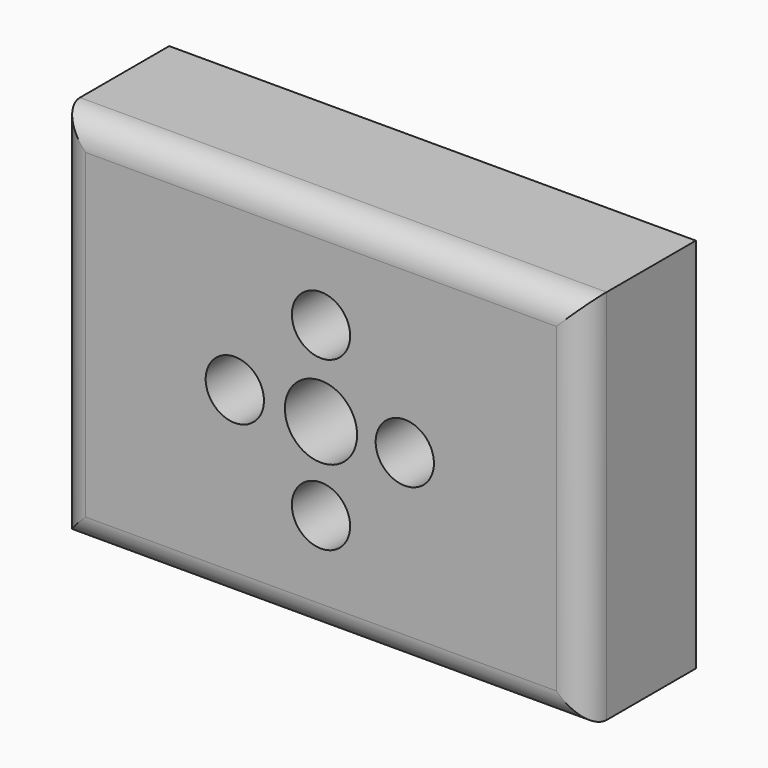
from build123d import *

# Parameters (mm, degrees)
F0_W     = 95.952422
F0_H     = 68.632632
F0_R     = 5.3086
F0_R_2   = 6.5786
F1_DEPTH = 25.4
F2_R     = 5.08


with BuildPart() as f1:
    # F0 (on Front) → F1 (new body)
    with BuildSketch(Plane.XZ):
        Rectangle(F0_W, F0_H)
        with Locations((0, -15.055645)):
            Circle(F0_R, mode=Mode.SUBTRACT)
        with Locations((-15.700888, 0)):
            Circle(F0_R, mode=Mode.SUBTRACT)
        Circle(F0_R_2, mode=Mode.SUBTRACT)
        with Locations((15.270727, 0)):
            Circle(F0_R, mode=Mode.SUBTRACT)
        with Locations((0, 15.485806)):
            Circle(F0_R, mode=Mode.SUBTRACT)
    extrude(amount=F1_DEPTH)

    # F2
    f2_edges = [f1.edges().sort_by_distance(p)[0] for p in [
        (0, -25.4, 34.316316),
        (-47.976211, -25.4, 0),
        (0, -25.4, -34.316316),
        (47.976211, -25.4, 0),
    ]]
    fillet(f2_edges, radius=F2_R)


solid = f1.part
